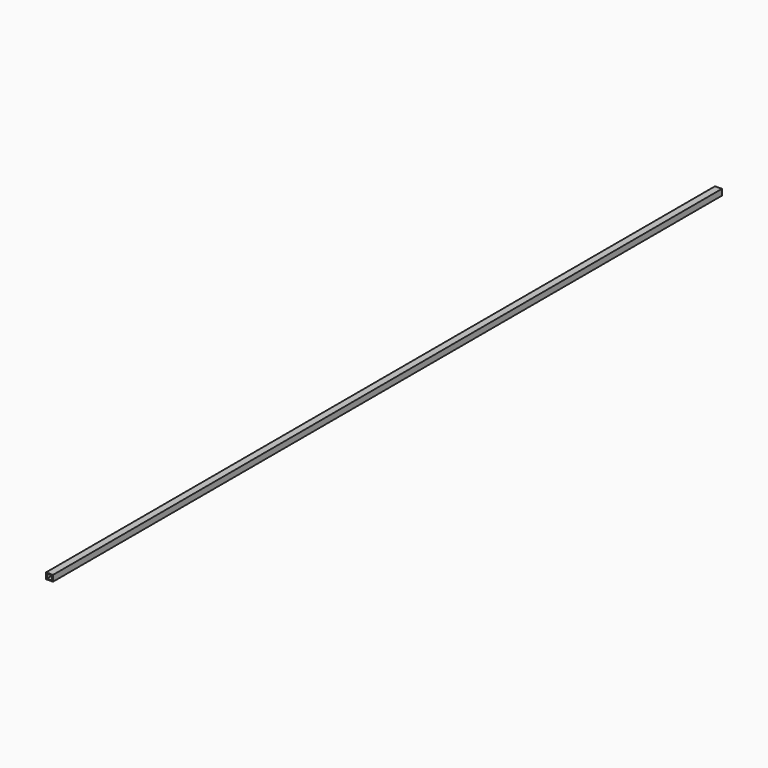
from build123d import *

# Parameters (mm, degrees)
F0_W     = 75.3402784467
F0_H     = 22.2155153751
F1_DEPTH = 25.4
F2_T     = -3
F3_DEPTH = 2997.2


with BuildPart() as f1:
    # F0 (on Right) → F1 (new body)
    with BuildSketch(Plane.YZ):
        with Locations((-37.6701392233, -11.1077576876)):
            Rectangle(F0_W, F0_H)
    extrude(amount=F1_DEPTH)

    # F2
    f2_openings = [f1.faces().sort_by_distance(p)[0] for p in [
        (12.7, -75.340278, -11.107758),
        (12.7, 0, -11.107758),
    ]]
    offset(amount=F2_T, openings=f2_openings)

    # F3 (add): a face of the model
    f3_faces = [f1.faces().sort_by_distance(p)[0] for p in [
        (12.7, 0, -21.8780706947),
    ]]
    extrude(f3_faces, amount=F3_DEPTH)


solid = f1.part
